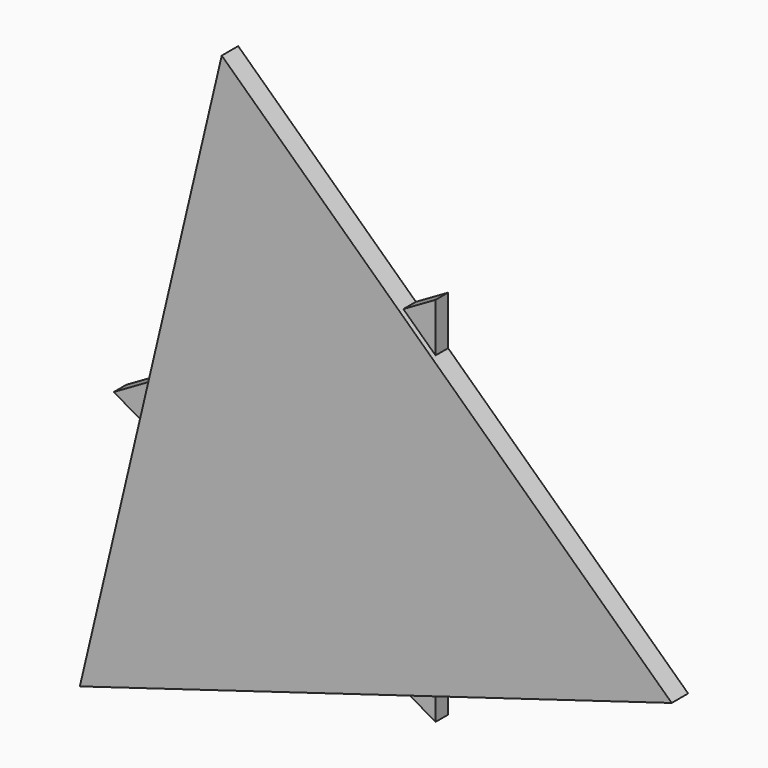
from build123d import *

# Parameters (mm, degrees)
F1_DEPTH = 4.318
F3_DEPTH = 3.302


with BuildPart() as f1:
    # F0 (on Front) → F1 (new body)
    with BuildSketch(Plane.XZ):
        Polygon((-51.41427, -54.610608), (73.001309, -17.22076), (-21.587038, 71.831368), align=None)
    extrude(amount=F1_DEPTH)


with BuildPart() as f3:
    # F2 (on Front) → F3 (new body)
    with BuildSketch(Plane.XZ):
        Polygon((22.549991, -37.548107), (22.549991, 40.567352), (-45.099981, 1.509623), align=None)
    extrude(amount=F3_DEPTH)


solid = Compound([f1.part, f3.part])
